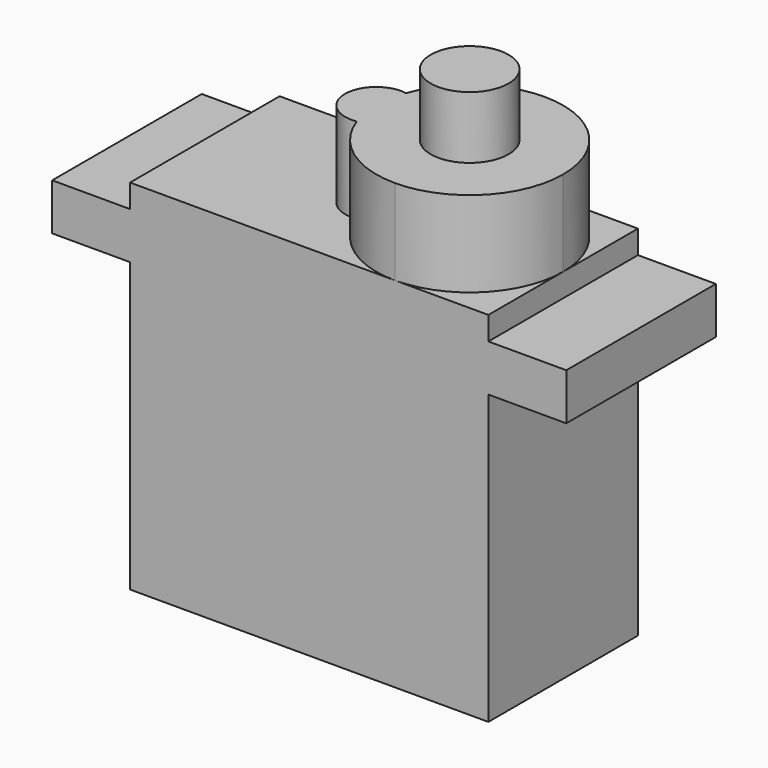
from build123d import *

# Parameters (mm, degrees)
F0_W     = 23
F0_H     = 12
F1_DEPTH = 11.5
F3_DEPTH = 5.5
F4_R     = 2.5
F5_DEPTH = 4
F6_W     = 5
F6_H     = 3
F7_DEPTH = 12


with BuildPart() as f1:
    # F0 (on Top) → F1 (new body, symmetric)
    with BuildSketch(Plane.XY):
        Rectangle(F0_W, F0_H)
    extrude(amount=F1_DEPTH, both=True)

    # F2 (on face) → F3 (join)
    with BuildSketch(Plane.XY.offset(11.5)):
        with BuildLine():
            ThreePointArc((5.5, -6), (9.7426406871, -4.2426406871), (11.5, 0))
            ThreePointArc((11.5, 0), (9.7426406871, 4.2426406871), (5.5, 6))
            ThreePointArc((5.5, 6), (2.0238066485, 4.8904069139), (-0.1666666667, 1.9720265944))
            ThreePointArc((-0.1666666667, 1.9720265944), (1.0275252317, 1.2909944487), (1.5, 0))
            ThreePointArc((1.5, 0), (1.0275252317, -1.2909944487), (-0.1666666667, -1.9720265944))
            ThreePointArc((-0.1666666667, -1.9720265944), (2.0238066485, -4.8904069139), (5.5, -6))
        make_face()
        with BuildLine():
            ThreePointArc((1.5, 0), (1.0275252317, 1.2909944487), (-0.1666666667, 1.9720265944))
            ThreePointArc((-0.1666666667, 1.9720265944), (-0.5, 0), (-0.1666666667, -1.9720265944))
            ThreePointArc((-0.1666666667, -1.9720265944), (1.0275252317, -1.2909944487), (1.5, 0))
        make_face()
        with BuildLine():
            ThreePointArc((-0.1666666667, -1.9720265944), (-0.5, 0), (-0.1666666667, 1.9720265944))
            ThreePointArc((-0.1666666667, 1.9720265944), (-2.5, 0), (-0.1666666667, -1.9720265944))
        make_face()
    extrude(amount=F3_DEPTH)

    # F4 (on face) → F5 (join)
    with BuildSketch(Plane.XY.offset(17)):
        with Locations((5.5, 0)):
            Circle(F4_R)
    extrude(amount=F5_DEPTH)

    # F6 (on face) → F7 (join)
    with BuildSketch(Plane.XZ.offset(6)):
        with Locations((-14, 8.5)):
            Rectangle(F6_W, F6_H)
        with Locations((14, 8.5)):
            Rectangle(F6_W, F6_H)
    extrude(amount=-F7_DEPTH)


solid = f1.part
